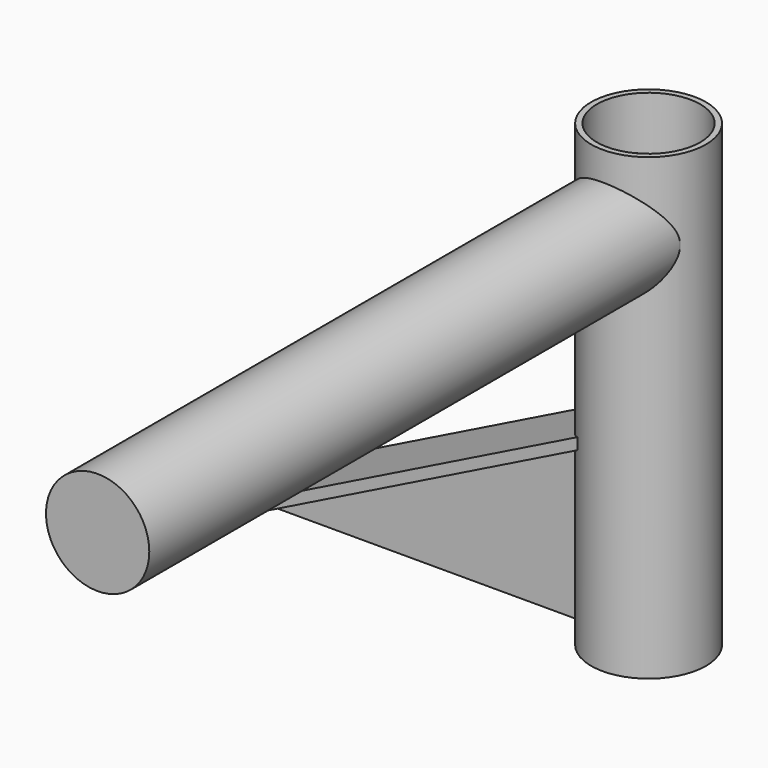
from build123d import *

# Parameters (mm, degrees)
F0_R     = 6.35
F0_R_2   = 5.715
F1_DEPTH = 50.8
F2_R     = 5.715
F3_DEPTH = 76.2
F5_DEPTH = 5.08
F7_DEPTH = 0.127


with BuildPart() as f1:
    # F0 (on Top) → F1 (new body)
    with BuildSketch(Plane.XY):
        Circle(F0_R)
        Circle(F0_R_2, mode=Mode.SUBTRACT)
    extrude(amount=F1_DEPTH)

    # F2 (on Front) → F3 (join)
    with BuildSketch(Plane.XZ):
        with Locations((0, 41.91)):
            Circle(F2_R)
    extrude(amount=F3_DEPTH)

    # F4 (on Front) → F5 (join, symmetric)
    with BuildSketch(Plane.XZ):
        Polygon((0, 21.6720270771), (0, 22.9420270771), (-46.1834855378, 0), (-43.6269099381, 0), align=None)
    extrude(amount=F5_DEPTH, both=True)


with BuildPart() as f7:
    # F6 (on Front) → F7 (new body, symmetric)
    with BuildSketch(Plane.XZ):
        Polygon((-6.4489128999, 18.3588717035), (-43.384578079, 0), (-6.4489128999, 0), align=None)
    extrude(amount=F7_DEPTH, both=True)


solid = Compound([f1.part, f7.part])
